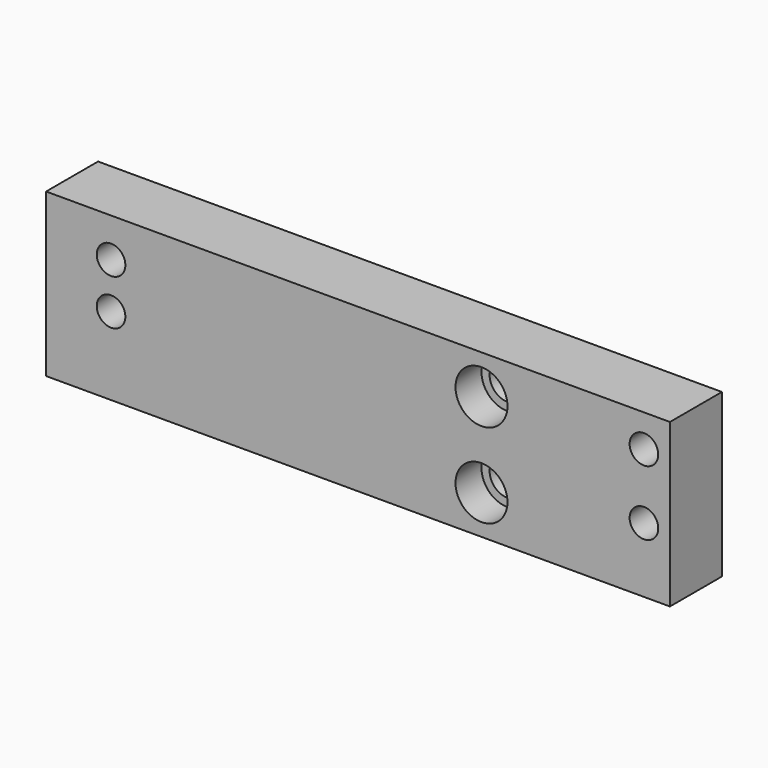
from build123d import *

# Parameters (mm, degrees)
F0_W           = 96
F0_H           = 25
F1_DEPTH       = 10
F2_D           = 5.5
F2_CBORE_D     = 8
F2_CBORE_DEPTH = 5
F3_D           = 4.4
F5_D           = 4.2
F5_DEPTH       = 12
F5_TIP         = 1.2618073


with BuildPart() as f1:
    # F0 (on Front) → F1 (new body)
    with BuildSketch(Plane.XZ):
        Rectangle(F0_W, F0_H)
    extrude(amount=-F1_DEPTH)

    # F2 (through all)
    with Locations(Plane.XZ):
        with Locations((19, 6.5), (19, -6.5)):
            CounterBoreHole(F2_D / 2, F2_CBORE_D / 2, F2_CBORE_DEPTH)

    # F3 (through all)
    with Locations(Plane.XZ):
        with Locations((44, 7.5), (44, -2.5), (-38, 6.5), (-38, -0.5)):
            Hole(F3_D / 2)

    # F5
    with Locations(Plane(origin=(-48, 0, 0), x_dir=(0, -1, 0), z_dir=(-1, 0, 0))):
        with Locations((-4, -6.5)):
            Hole(F5_D / 2, depth=F5_DEPTH)
            with Locations((0, 0, -(F5_DEPTH + F5_TIP / 2))):  # 118° drill point
                Cone(0, F5_D / 2, F5_TIP, mode=Mode.SUBTRACT)


solid = f1.part
